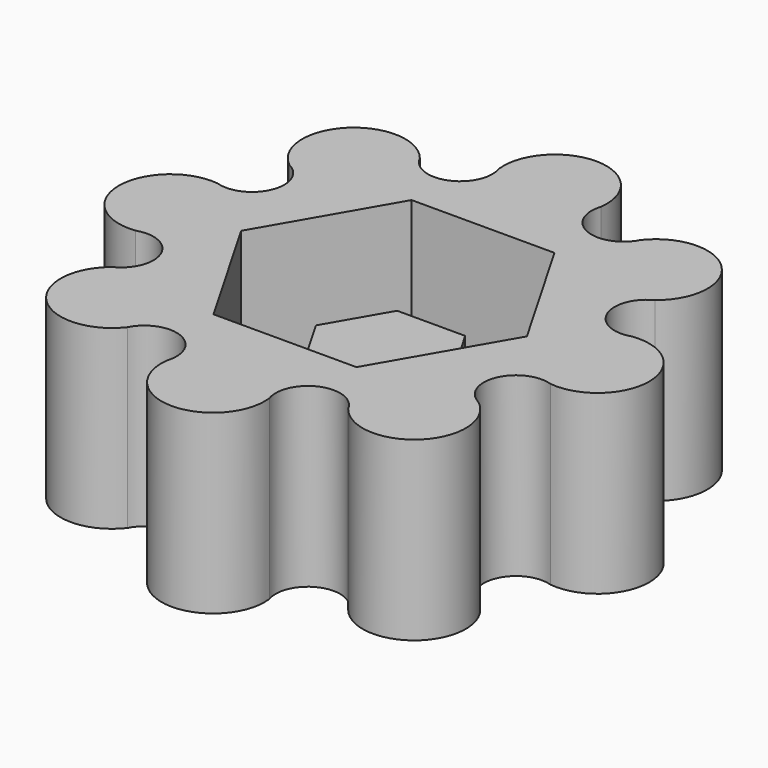
from build123d import *

# Parameters (mm, degrees)
EXTRUDE001_DEPTH = 3
EXTRUDE_DEPTH    = 5
PAD_DEPTH        = 6


with BuildPart() as extrude001:
    # RegularPolygon001 → Extrude001 (new body)
    with BuildSketch(Plane(origin=(0, 0, -2), x_dir=(0, 1, 0), z_dir=(0, 0, 1))):
        Polygon((0, -2.31), (2.000519, -1.155), (2.000519, 1.155), (0, 2.31), (-2.000519, 1.155), (-2.000519, -1.155), align=None)
    extrude(amount=-EXTRUDE001_DEPTH)


with BuildPart() as extrude_body:
    # RegularPolygon → Extrude (new body)
    with BuildSketch(Plane(origin=(0, 0, 0), x_dir=(0, 1, 0), z_dir=(0, 0, 1))):
        Polygon((0, -4.85), (4.200223, -2.425), (4.200223, 2.425), (0, 4.85), (-4.200223, 2.425), (-4.200223, -2.425), align=None)
    extrude(amount=-EXTRUDE_DEPTH)


with BuildPart() as fusion:
    # Sketch → Pad (new body)
    with BuildSketch(Plane.XY):
        with BuildLine():
            ThreePointArc((1.737208, 7.038793), (0, 9), (-1.737208, 7.038793))
            ThreePointArc((-3.748787, 6.20557), (-2.356657, 5.689474), (-1.737208, 7.038793))
            ThreePointArc((-3.748787, 6.20557), (-6.363961, 6.363961), (-6.20557, 3.748787))
            ThreePointArc((-7.038793, 1.737208), (-5.689474, 2.356657), (-6.20557, 3.748787))
            ThreePointArc((-7.038793, 1.737208), (-9, 0), (-7.038793, -1.737208))
            ThreePointArc((-6.20557, -3.748787), (-5.689474, -2.356657), (-7.038793, -1.737208))
            ThreePointArc((-6.20557, -3.748787), (-6.363961, -6.363961), (-3.748787, -6.20557))
            ThreePointArc((-1.737208, -7.038793), (-2.356657, -5.689474), (-3.748787, -6.20557))
            ThreePointArc((-1.737208, -7.038793), (0, -9), (1.737208, -7.038793))
            ThreePointArc((3.748787, -6.20557), (2.356657, -5.689474), (1.737208, -7.038793))
            ThreePointArc((3.748787, -6.20557), (6.363961, -6.363961), (6.20557, -3.748787))
            ThreePointArc((7.038793, -1.737208), (5.689474, -2.356657), (6.20557, -3.748787))
            ThreePointArc((7.038793, -1.737208), (9, 0), (7.038793, 1.737208))
            ThreePointArc((6.20557, 3.748787), (5.689474, 2.356657), (7.038793, 1.737208))
            ThreePointArc((6.20557, 3.748787), (6.363961, 6.363961), (3.748787, 6.20557))
            ThreePointArc((1.737208, 7.038793), (2.356657, 5.689474), (3.748787, 6.20557))
        make_face()
    extrude(amount=-PAD_DEPTH)

    # Cut: cut Extrude body
    add(extrude_body.part, mode=Mode.SUBTRACT)

    # Fusion: union Extrude001
    add(extrude001.part)


solid = fusion.part
